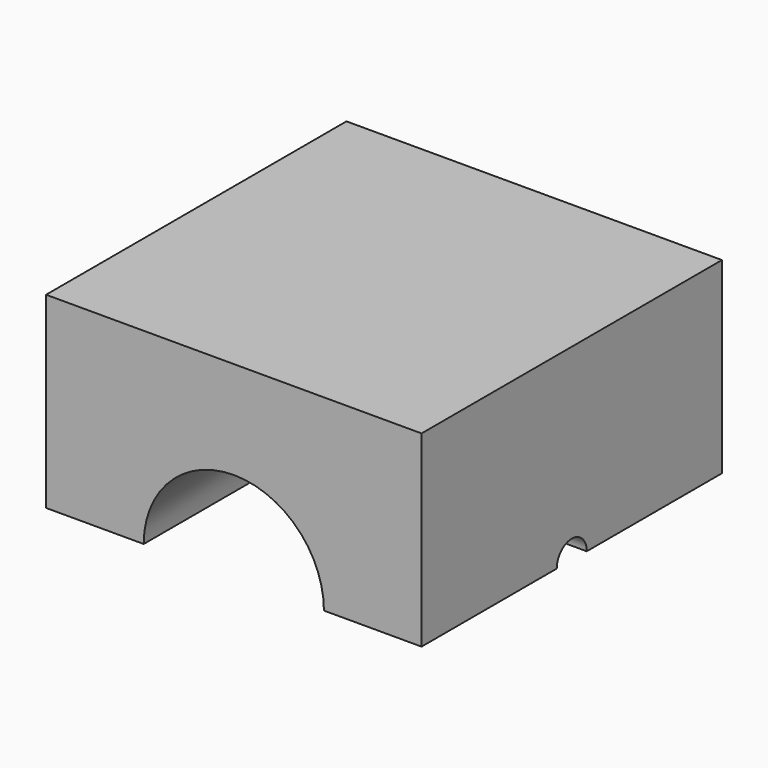
from build123d import *

# Parameters (mm, degrees)
F0_W     = 50
F0_H     = 25
F1_DEPTH = 25
F3_DEPTH = 25
F4_R     = 20
F5_DEPTH = 7.5
F7_DEPTH = 50.001


with BuildPart() as f1:
    # F0 (on Front) → F1 (new body, symmetric)
    with BuildSketch(Plane.XZ):
        with Locations((0, 12.5)):
            Rectangle(F0_W, F0_H)
    extrude(amount=F1_DEPTH, both=True)

    # F2 (on face) → F3 (cut)
    with BuildSketch(Plane.YZ.offset(25)):
        with BuildLine():
            Line((-2.5, 0), (2.5, 0))
            ThreePointArc((2.5, 0), (0, 2.5), (-2.5, 0))
        make_face()
    extrude(amount=-F3_DEPTH, mode=Mode.SUBTRACT)

    # F4 (on Front) → F5 (cut, symmetric)
    with BuildSketch(Plane.XZ):
        Circle(F4_R)
    extrude(amount=F5_DEPTH, both=True, mode=Mode.SUBTRACT)

    # F6 (on face) → F7 (cut, through all)
    with BuildSketch(Plane.XZ.offset(25)):
        with BuildLine():
            Line((-12, 0), (12, 0))
            ThreePointArc((12, 0), (0, 12), (-12, 0))
        make_face()
    extrude(amount=-F7_DEPTH, mode=Mode.SUBTRACT)


solid = f1.part
